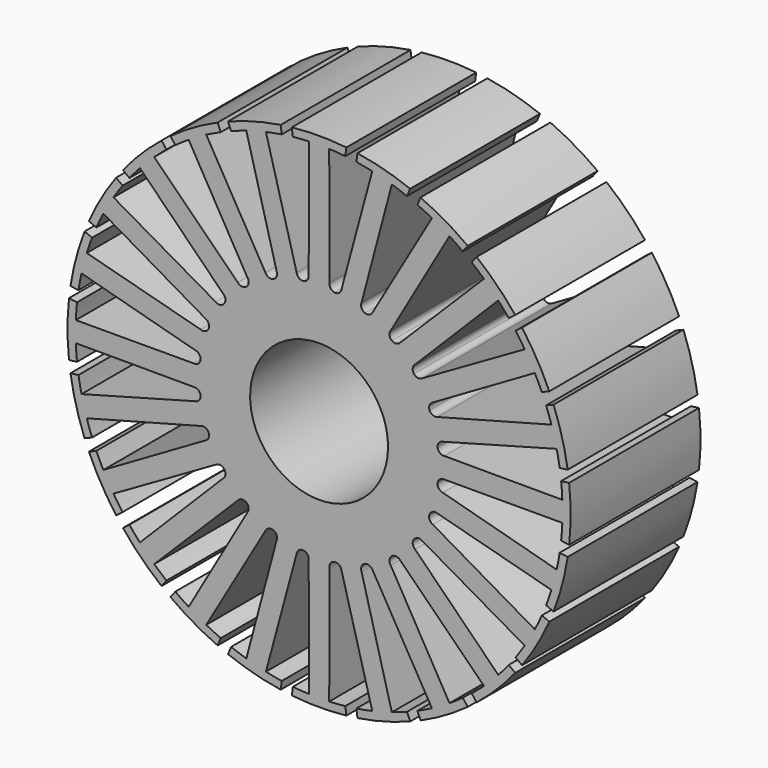
from build123d import *

# Parameters (mm, degrees)
F1_DEPTH = 40
F2_COUNT = 24
F4_DEPTH = 130.6014023721


with BuildPart() as f1:
    # F0 (on Front) → F1 (new body)
    with BuildSketch(Plane.XZ):
        with BuildLine():
            Line((6.4613058998, 59.6510815163), (6.7224251309, 61.6344789899))
            ThreePointArc((6.7224251309, 61.6344789899), (0, 62), (-6.7224251309, 61.6344789899))
            Line((-6.7224251309, 61.6344789899), (-6.4613058998, 59.6510815163))
            ThreePointArc((-6.4613058998, 59.6510815163), (-4.4831100005, 59.8322799559), (-2.5, 59.9478940414))
            Line((-2.5, 59.9478940414), (-2.55441958, 30.8945778513))
            ThreePointArc((-2.55441958, 30.8945778513), (-2.8544195678, 29.7895812818), (-3.8466457812, 29.2181755131))
            Line((-3.8466457812, 29.2181755131), (-2.2189452677, 16.8545626434))
            ThreePointArc((-2.2189452677, 16.8545626434), (-1.1118531969, 16.9636016951), (0, 17))
            ThreePointArc((0, 17), (1.1118531969, 16.9636016951), (2.2189452677, 16.8545626434))
            Line((2.2189452677, 16.8545626434), (3.8466457812, 29.2181755131))
            ThreePointArc((3.8466457812, 29.2181755131), (2.8544195678, 29.7895812818), (2.55441958, 30.8945778513))
            Line((2.55441958, 30.8945778513), (2.5, 59.9478940414))
            ThreePointArc((2.5, 59.9478940414), (4.4831100005, 59.8322799559), (6.4613058998, 59.6510815163))
        make_face()
        with BuildLine():
            Line((6.4613058998, 59.6510815163), (6.7224251309, 61.6344789899))
            ThreePointArc((6.7224251309, 61.6344789899), (0, 62), (-6.7224251309, 61.6344789899))
            Line((-6.7224251309, 61.6344789899), (-6.4613058998, 59.6510815163))
            ThreePointArc((-6.4613058998, 59.6510815163), (-4.4831100005, 59.8322799559), (-2.5, 59.9478940414))
            Line((-2.5, 59.9478940414), (-2.55441958, 30.8945778513))
            ThreePointArc((-2.55441958, 30.8945778513), (-2.8544195678, 29.7895812818), (-3.8466457812, 29.2181755131))
            Line((-3.8466457812, 29.2181755131), (-2.2189452677, 16.8545626434))
            ThreePointArc((-2.2189452677, 16.8545626434), (-1.1118531969, 16.9636016951), (0, 17))
            ThreePointArc((0, 17), (1.1118531969, 16.9636016951), (2.2189452677, 16.8545626434))
            Line((2.2189452677, 16.8545626434), (3.8466457812, 29.2181755131))
            ThreePointArc((3.8466457812, 29.2181755131), (2.8544195678, 29.7895812818), (2.55441958, 30.8945778513))
            Line((2.55441958, 30.8945778513), (2.5, 59.9478940414))
            ThreePointArc((2.5, 59.9478940414), (4.4831100005, 59.8322799559), (6.4613058998, 59.6510815163))
        make_face()
        with BuildLine():
            ThreePointArc((17, 0), (12.7812767271, 11.2088788567), (2.2189452677, 16.8545626434))
            Line((2.2189452677, 16.8545626434), (0, 0))
            Line((0, 0), (17, 0))
        make_face()
        with BuildLine():
            Line((0, 0), (-2.2189452677, 16.8545626434))
            ThreePointArc((-2.2189452677, 16.8545626434), (-11.2088788567, -12.7812767271), (17, 0))
            Line((17, 0), (0, 0))
        make_face()
        with BuildLine():
            ThreePointArc((0, 17), (-1.1118531969, 16.9636016951), (-2.2189452677, 16.8545626434))
            Line((-2.2189452677, 16.8545626434), (0, 0))
            Line((0, 0), (0, 17))
        make_face()
        with BuildLine():
            Line((0, 0), (2.2189452677, 16.8545626434))
            ThreePointArc((2.2189452677, 16.8545626434), (1.1118531969, 16.9636016951), (0, 17))
            Line((0, 17), (0, 0))
        make_face()
    extrude(amount=F1_DEPTH)


with BuildPart() as f2_1:
    # F2: instance of F1
    add(f1.part.rotate(Axis((0, 0, 0), (0, 1, 0)), 1 * 360 / F2_COUNT))


with BuildPart() as f2_2:
    # F2: instance of F1
    add(f1.part.rotate(Axis((0, 0, 0), (0, 1, 0)), 2 * 360 / F2_COUNT))


with BuildPart() as f2_3:
    # F2: instance of F1
    add(f1.part.rotate(Axis((0, 0, 0), (0, 1, 0)), 3 * 360 / F2_COUNT))


with BuildPart() as f2_4:
    # F2: instance of F1
    add(f1.part.rotate(Axis((0, 0, 0), (0, 1, 0)), 4 * 360 / F2_COUNT))


with BuildPart() as f2_5:
    # F2: instance of F1
    add(f1.part.rotate(Axis((0, 0, 0), (0, 1, 0)), 5 * 360 / F2_COUNT))


with BuildPart() as f2_6:
    # F2: instance of F1
    add(f1.part.rotate(Axis((0, 0, 0), (0, 1, 0)), 6 * 360 / F2_COUNT))


with BuildPart() as f2_7:
    # F2: instance of F1
    add(f1.part.rotate(Axis((0, 0, 0), (0, 1, 0)), 7 * 360 / F2_COUNT))


with BuildPart() as f2_8:
    # F2: instance of F1
    add(f1.part.rotate(Axis((0, 0, 0), (0, 1, 0)), 8 * 360 / F2_COUNT))


with BuildPart() as f2_9:
    # F2: instance of F1
    add(f1.part.rotate(Axis((0, 0, 0), (0, 1, 0)), 9 * 360 / F2_COUNT))


with BuildPart() as f2_10:
    # F2: instance of F1
    add(f1.part.rotate(Axis((0, 0, 0), (0, 1, 0)), 10 * 360 / F2_COUNT))


with BuildPart() as f2_11:
    # F2: instance of F1
    add(f1.part.rotate(Axis((0, 0, 0), (0, 1, 0)), 11 * 360 / F2_COUNT))


with BuildPart() as f2_12:
    # F2: instance of F1
    add(f1.part.rotate(Axis((0, 0, 0), (0, 1, 0)), 12 * 360 / F2_COUNT))


with BuildPart() as f2_13:
    # F2: instance of F1
    add(f1.part.rotate(Axis((0, 0, 0), (0, 1, 0)), 13 * 360 / F2_COUNT))


with BuildPart() as f2_14:
    # F2: instance of F1
    add(f1.part.rotate(Axis((0, 0, 0), (0, 1, 0)), 14 * 360 / F2_COUNT))


with BuildPart() as f2_15:
    # F2: instance of F1
    add(f1.part.rotate(Axis((0, 0, 0), (0, 1, 0)), 15 * 360 / F2_COUNT))


with BuildPart() as f2_16:
    # F2: instance of F1
    add(f1.part.rotate(Axis((0, 0, 0), (0, 1, 0)), 16 * 360 / F2_COUNT))


with BuildPart() as f2_17:
    # F2: instance of F1
    add(f1.part.rotate(Axis((0, 0, 0), (0, 1, 0)), 17 * 360 / F2_COUNT))


with BuildPart() as f2_18:
    # F2: instance of F1
    add(f1.part.rotate(Axis((0, 0, 0), (0, 1, 0)), 18 * 360 / F2_COUNT))


with BuildPart() as f2_19:
    # F2: instance of F1
    add(f1.part.rotate(Axis((0, 0, 0), (0, 1, 0)), 19 * 360 / F2_COUNT))


with BuildPart() as f2_20:
    # F2: instance of F1
    add(f1.part.rotate(Axis((0, 0, 0), (0, 1, 0)), 20 * 360 / F2_COUNT))


with BuildPart() as f2_21:
    # F2: instance of F1
    add(f1.part.rotate(Axis((0, 0, 0), (0, 1, 0)), 21 * 360 / F2_COUNT))


with BuildPart() as f2_22:
    # F2: instance of F1
    add(f1.part.rotate(Axis((0, 0, 0), (0, 1, 0)), 22 * 360 / F2_COUNT))


with BuildPart() as f2_23:
    # F2: instance of F1
    add(f1.part.rotate(Axis((0, 0, 0), (0, 1, 0)), 23 * 360 / F2_COUNT))


with BuildPart() as f1_1:
    add(f1.part)

    # F3: union F2_4, F2_3, F2_7, F2_5, F2_2, F2_1, F2_9, F2_8, F2_6, F2_13, F2_12, F2_11, F2_10, F2_17, F2_16, F2_15, F2_14, F2_21, F2_20, F2_19, F2_18, F2_22, F2_23
    add(f2_4.part)
    add(f2_3.part)
    add(f2_7.part)
    add(f2_5.part)
    add(f2_2.part)
    add(f2_1.part)
    add(f2_9.part)
    add(f2_8.part)
    add(f2_6.part)
    add(f2_13.part)
    add(f2_12.part)
    add(f2_11.part)
    add(f2_10.part)
    add(f2_17.part)
    add(f2_16.part)
    add(f2_15.part)
    add(f2_14.part)
    add(f2_21.part)
    add(f2_20.part)
    add(f2_19.part)
    add(f2_18.part)
    add(f2_22.part)
    add(f2_23.part)

    # F0 (on Front) → F4 (cut)
    with BuildSketch(Plane.XZ):
        with BuildLine():
            Line((0, 0), (-2.2189452677, 16.8545626434))
            ThreePointArc((-2.2189452677, 16.8545626434), (-11.2088788567, -12.7812767271), (17, 0))
            Line((17, 0), (0, 0))
        make_face()
        with BuildLine():
            ThreePointArc((17, 0), (12.7812767271, 11.2088788567), (2.2189452677, 16.8545626434))
            Line((2.2189452677, 16.8545626434), (0, 0))
            Line((0, 0), (17, 0))
        make_face()
        with BuildLine():
            Line((0, 0), (2.2189452677, 16.8545626434))
            ThreePointArc((2.2189452677, 16.8545626434), (1.1118531969, 16.9636016951), (0, 17))
            Line((0, 17), (0, 0))
        make_face()
        with BuildLine():
            ThreePointArc((0, 17), (-1.1118531969, 16.9636016951), (-2.2189452677, 16.8545626434))
            Line((-2.2189452677, 16.8545626434), (0, 0))
            Line((0, 0), (0, 17))
        make_face()
    extrude(amount=F4_DEPTH, mode=Mode.SUBTRACT)


solid = f1_1.part
